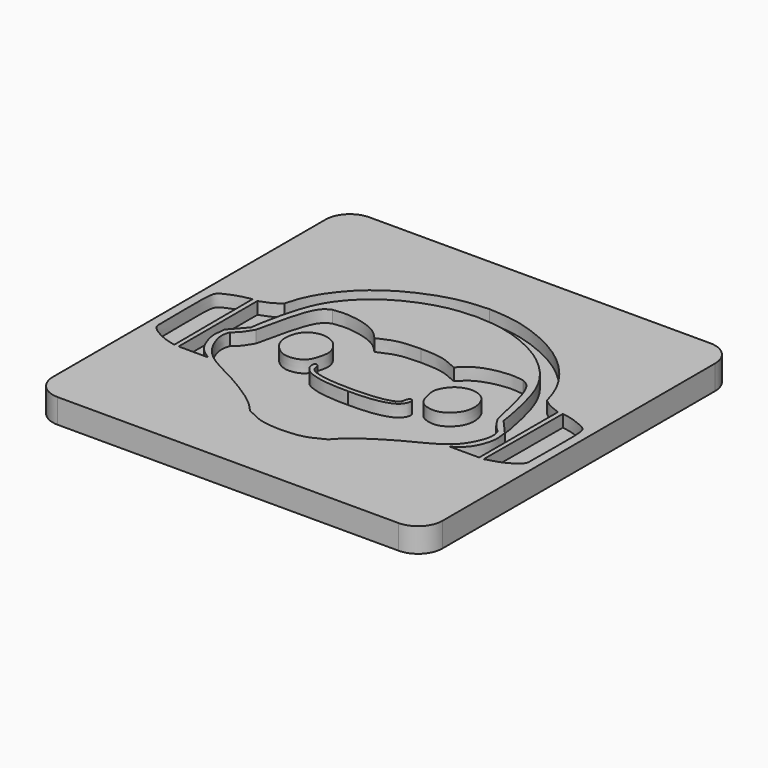
from build123d import *

# Parameters (mm, degrees)
F1_DEPTH = 6.35
F3_DEPTH = 3.175


with BuildPart() as f1:
    # F0 (on Top) → F1 (new body)
    with BuildSketch(Plane.XY):
        with BuildLine():
            Line((44.45, 50.8), (-44.45, 50.8))
            ThreePointArc((-44.45, 50.8), (-48.9401280605, 48.9401280605), (-50.8, 44.45))
            Line((-50.8, 44.45), (-50.8, -44.45))
            ThreePointArc((-50.8, -44.45), (-48.9401280605, -48.9401280605), (-44.45, -50.8))
            Line((-44.45, -50.8), (44.45, -50.8))
            ThreePointArc((44.45, -50.8), (48.9401280605, -48.9401280605), (50.8, -44.45))
            Line((50.8, -44.45), (50.8, 44.45))
            ThreePointArc((50.8, 44.45), (48.9401280605, 48.9401280605), (44.45, 50.8))
        make_face()
    extrude(amount=F1_DEPTH)

    # F2 (on face) → F3 (cut)
    with BuildSketch(Plane.XY.offset(6.35)):
        with BuildLine():
            add(Edge.make_bspline(
                [(-24.8850248754, 14.2479538918), (-23.7866133592, 14.3934386666), (-21.3637592776, 14.7143460637), (-16.3297638961, 13.8993667907), (-12.5234015624, 12.2117842876), (-11.0466473156, 10.5872289007), (-10.3606022894, 9.8325209692)],
                knots=[0, 0, 0, 0, 0.2361359922, 0.5208640333, 0.7774112737, 1, 1, 1, 1], degree=3))
            add(Edge.make_bspline(
                [(-24.8850248754, 14.2479538918), (-25.6900046089, 13.859758653), (-28.3149843178, 12.5938825291), (-30.2084508625, 3.753333819), (-31.5212644637, -2.3761605844)],
                knots=[0, 0, 0, 0, 0.3066613166, 1, 1, 1, 1], degree=3))
            add(Edge.make_bspline(
                [(-31.5212644637, -2.3761605844), (-32.0837465978, -3.3141941821), (-33.1298851989, -5.0588063147), (-34.3676728664, -6.1122079552), (-34.9399335682, -6.5992223099)],
                knots=[0, 0, 0, 0, 0.5376745811, 1, 1, 1, 1], degree=3))
            add(Edge.make_bspline(
                [(-34.9399335682, -6.5992223099), (-35.1757283319, -7.3174666423), (-35.7548532296, -9.0815141942), (-33.8463902107, -14.2478745424), (-30.098077757, -18.2305788516), (-23.1275889146, -21.4741431997), (-17.4001927085, -24.8919952526), (-12.8777528429, -27.9674604127), (-11.0383965677, -30.0104903326), (-10.1907067001, -30.952045694)],
                knots=[0, 0, 0, 0, 0.0983196738, 0.2414785221, 0.389653151, 0.5636679891, 0.7289188441, 0.8750689292, 1, 1, 1, 1], degree=3))
            add(Edge.make_bspline(
                [(-10.1907067001, -30.952045694), (-8.6374192877, -31.7831737355), (-5.5011640782, -33.4613111035), (-1.8452540959, -33.5734875674), (0, -33.6301065981)],
                knots=[0, 0, 0, 0, 0.4952681809, 1, 1, 1, 1], degree=3))
            add(Edge.make_bspline(
                [(10.1907067001, -30.952045694), (8.6374192877, -31.7831737355), (5.5011640782, -33.4613111035), (1.8452540959, -33.5734875674), (0, -33.6301065981)],
                knots=[0, 0, 0, 0, 0.4952681809, 1, 1, 1, 1], degree=3))
            add(Edge.make_bspline(
                [(34.9399335682, -6.5992223099), (35.1757283319, -7.3174666423), (35.7548532296, -9.0815141942), (33.8463902107, -14.2478745424), (30.098077757, -18.2305788516), (23.1275889146, -21.4741431997), (17.4001927085, -24.8919952526), (12.8777528429, -27.9674604127), (11.0383965677, -30.0104903326), (10.1907067001, -30.952045694)],
                knots=[0, 0, 0, 0, 0.0983196738, 0.2414785221, 0.389653151, 0.5636679891, 0.7289188441, 0.8750689292, 1, 1, 1, 1], degree=3))
            add(Edge.make_bspline(
                [(31.5212644637, -2.3761605844), (32.0837465978, -3.3141941821), (33.1298851989, -5.0588063147), (34.3676728664, -6.1122079552), (34.9399335682, -6.5992223099)],
                knots=[0, 0, 0, 0, 0.5376745811, 1, 1, 1, 1], degree=3))
            add(Edge.make_bspline(
                [(24.8850248754, 14.2479538918), (25.6900046089, 13.859758653), (28.3149843178, 12.5938825291), (30.2084508625, 3.753333819), (31.5212644637, -2.3761605844)],
                knots=[0, 0, 0, 0, 0.3066613166, 1, 1, 1, 1], degree=3))
            add(Edge.make_bspline(
                [(24.8850248754, 14.2479538918), (23.7866133592, 14.3934386666), (21.3637592776, 14.7143460637), (16.3297638961, 13.8993667907), (12.5234015624, 12.2117842876), (11.0466473156, 10.5872289007), (10.3606022894, 9.8325209692)],
                knots=[0, 0, 0, 0, 0.2361359922, 0.5208640333, 0.7774112737, 1, 1, 1, 1], degree=3))
            add(Edge.make_bspline(
                [(10.3606022894, 9.8325209692), (9.5949152427, 10.1835349192), (7.9671384869, 10.9297566965), (5.0138998036, 11.928078925), (1.2019718019, 12.0527967832), (0.3143654346, 12.0574074116), (0, 12.0590403676)],
                knots=[0, 0, 0, 0, 0.2500537527, 0.5315901426, 0.8341022847, 1, 1, 1, 1], degree=3))
            add(Edge.make_bspline(
                [(-10.3606022894, 9.8325209692), (-9.5949152427, 10.1835349192), (-7.9671384869, 10.9297566965), (-5.0138998036, 11.928078925), (-1.2019718019, 12.0527967832), (-0.3143654346, 12.0574074116), (0, 12.0590403676)],
                knots=[0, 0, 0, 0, 0.2500537527, 0.5315901426, 0.8341022847, 1, 1, 1, 1], degree=3))
        make_face()
        with BuildLine():
            add(Edge.make_bspline(
                [(0, -10.6089804322), (-1.7232643473, -10.5738455282), (-5.0039665501, -10.5069566861), (-9.0046160099, -9.9248318139), (-11.6243310823, -8.8162788722), (-11.5112935342, -7.1052753051), (-12.4720387624, -6.2826792888), (-13.2120021357, -7.4143776745), (-12.0197207364, -9.8828668581), (-8.9684588911, -11.0039289847), (-5.7038364003, -11.7113537876), (-0.1276444256, -11.9023051246), (0, -11.7957666516)],
                knots=[0, 0, 0, 0, 0.13495907, 0.2569312822, 0.3507217079, 0.423806334, 0.4800418153, 0.5360456898, 0.629741494, 0.7337277177, 0.8555369176, 0.9907725128, 0.9907725128, 0.9907725128, 0.9907725128], degree=3))
            add(Edge.make_bspline(
                [(0, -10.6089804322), (1.7232643473, -10.5738455282), (5.0039665501, -10.5069566861), (9.0046160099, -9.9248318139), (11.6243310823, -8.8162788722), (11.5112935342, -7.1052753051), (12.4720387624, -6.2826792888), (13.2120021357, -7.4143776745), (12.0197207364, -9.8828668581), (8.9684588911, -11.0039289847), (5.7038364003, -11.7113537876), (0.1276444256, -11.9023051246), (0, -11.7957666516)],
                knots=[0, 0, 0, 0, 0.13495907, 0.2569312822, 0.3507217079, 0.423806334, 0.4800418153, 0.5360456898, 0.629741494, 0.7337277177, 0.8555369176, 0.9907725128, 0.9907725128, 0.9907725128, 0.9907725128], degree=3))
        make_face(mode=Mode.SUBTRACT)
        with BuildLine():
            add(Edge.make_bspline(
                [(-19.6548011154, 4.3256334029), (-20.3893748171, 4.2808680562), (-22.2733276153, 3.828932065), (-24.2892588579, 1.7170478721), (-24.988593798, -2.4941395958), (-23.12135287, -5.7061532042), (-20.2534328768, -7.6797627048), (-17.1367705902, -7.4486730175), (-14.6480857038, -6.1475619411), (-13.6556100811, -2.4968357115), (-13.4182775369, 0.0192608631), (-15.6122331027, 3.3062704982), (-18.009657436, 4.18965627), (-19.0645423987, 4.3616041109), (-19.6548011154, 4.3256334029)],
                knots=[0, 0, 0, 0, 0.0772161461, 0.1587352943, 0.2560696373, 0.3481861007, 0.4365828621, 0.520093679, 0.5987861995, 0.6904217513, 0.7681616068, 0.8615751718, 0.9379538048, 1, 1, 1, 1], degree=3))
        make_face(mode=Mode.SUBTRACT)
        with BuildLine():
            add(Edge.make_bspline(
                [(19.6548011154, 4.3256334029), (20.3893748171, 4.2808680562), (22.2733276153, 3.828932065), (24.2892588579, 1.7170478721), (24.988593798, -2.4941395958), (23.12135287, -5.7061532042), (20.2534328768, -7.6797627048), (17.1367705902, -7.4486730175), (14.6480857038, -6.1475619411), (13.6556100811, -2.4968357115), (13.4182775369, 0.0192608631), (15.6122331027, 3.3062704982), (18.009657436, 4.18965627), (19.0645423987, 4.3616041109), (19.6548011154, 4.3256334029)],
                knots=[0, 0, 0, 0, 0.0772161461, 0.1587352943, 0.2560696373, 0.3481861007, 0.4365828621, 0.520093679, 0.5987861995, 0.6904217513, 0.7681616068, 0.8615751718, 0.9379538048, 1, 1, 1, 1], degree=3))
        make_face(mode=Mode.SUBTRACT)
        with BuildLine():
            add(Edge.make_bspline(
                [(0, 30.1495394402), (-2.2419343328, 30.047638833), (-6.8068745335, 29.8397287705), (-13.853097538, 27.5137284255), (-20.1462222326, 24.2479782421), (-27.0108370361, 18.0296295315), (-31.0008038589, 9.7285596957), (-33.0852361358, -2.2081550765), (-32.8735103105, -2.107226052), (-32.8630506992, -2.1022399887)],
                knots=[9.57138e-05, 9.57138e-05, 9.57138e-05, 9.57138e-05, 0.1479228726, 0.301093083, 0.45245789, 0.6194711982, 0.8067526781, 0.9904532578, 1, 1, 1, 1], degree=3))
            add(Edge.make_bspline(
                [(0, 30.1495394402), (2.2419343328, 30.047638833), (6.8068745335, 29.8397287705), (13.853097538, 27.5137284255), (20.1462222326, 24.2479782421), (27.0108370361, 18.0296295315), (31.0008038589, 9.7285596957), (33.0852361358, -2.2081550765), (32.8735103105, -2.107226052), (32.8630506992, -2.1022399887)],
                knots=[9.57138e-05, 9.57138e-05, 9.57138e-05, 9.57138e-05, 0.1479228726, 0.301093083, 0.45245789, 0.6194711982, 0.8067526781, 0.9904532578, 1, 1, 1, 1], degree=3))
            add(Edge.make_bspline(
                [(32.8630506992, -2.1022399887), (34.0862559776, -3.4911924352), (35.3094612559, -4.8801448817), (36.5326665342, -6.2690973282)],
                knots=[0, 0, 0, 0, 5.5523671045, 5.5523671045, 5.5523671045, 5.5523671045], degree=3))
            add(Edge.make_bspline(
                [(36.5326665342, -6.2690973282), (36.6617785928, -7.153369977), (36.9163172283, -8.8966738629), (36.6734696984, -11.3306766365), (34.9911942323, -15.7007052785), (32.652449485, -17.2233902234), (31.5056405962, -17.9700423032)],
                knots=[0, 0, 0, 0, 0.2201736747, 0.4340625295, 0.7224912542, 1, 1, 1, 1], degree=3))
            add(Edge.make_bspline(
                [(31.5056405962, -17.9700423032), (34.0697281063, -17.9700423032), (36.6338156164, -17.9700423032), (39.1979031265, -17.9700423032)],
                knots=[0, 0, 0, 0, 7.6922625303, 7.6922625303, 7.6922625303, 7.6922625303], degree=3))
            add(Edge.make_bspline(
                [(39.1979031265, -17.9700423032), (39.1979031265, -9.4093914765), (39.1979031265, -0.8487406497), (39.1979031265, 7.711910177)],
                knots=[0, 0, 0, 0, 25.6819524802, 25.6819524802, 25.6819524802, 25.6819524802], degree=3))
            add(Edge.make_bspline(
                [(39.1979031265, 7.711910177), (38.1562037293, 8.0787909622), (36.2014300778, 8.7672514663), (34.8705777097, 9.8313719191), (34.2489369214, 10.3284223005)],
                knots=[0, 0, 0, 0, 0.5329002651, 1, 1, 1, 1], degree=3))
            add(Edge.make_bspline(
                [(34.2489369214, 10.3284223005), (33.7212086337, 12.1346197459), (32.5376232946, 16.1855468345), (27.0647088411, 23.8925937349), (18.8942480026, 29.9532716554), (8.2553096904, 34.02232883), (2.6014695714, 34.3076991305), (0, 34.4390049577)],
                knots=[0, 0, 0, 0, 0.1636951942, 0.3671344448, 0.5834011943, 0.8083127408, 1, 1, 1, 1], degree=3))
            add(Edge.make_bspline(
                [(-34.2489369214, 10.3284223005), (-33.7212086337, 12.1346197459), (-32.5376232946, 16.1855468345), (-27.0647088411, 23.8925937349), (-18.8942480026, 29.9532716554), (-8.2553096904, 34.02232883), (-2.6014695714, 34.3076991305), (0, 34.4390049577)],
                knots=[0, 0, 0, 0, 0.1636951942, 0.3671344448, 0.5834011943, 0.8083127408, 1, 1, 1, 1], degree=3))
            add(Edge.make_bspline(
                [(-39.1979031265, 7.711910177), (-38.1562037293, 8.0787909622), (-36.2014300778, 8.7672514663), (-34.8705777097, 9.8313719191), (-34.2489369214, 10.3284223005)],
                knots=[0, 0, 0, 0, 0.5329002651, 1, 1, 1, 1], degree=3))
            add(Edge.make_bspline(
                [(-39.1979031265, -17.9700423032), (-39.1979031265, -9.4093914765), (-39.1979031265, -0.8487406497), (-39.1979031265, 7.711910177)],
                knots=[0, 0, 0, 0, 25.6819524802, 25.6819524802, 25.6819524802, 25.6819524802], degree=3))
            add(Edge.make_bspline(
                [(-31.5056405962, -17.9700423032), (-34.0697281063, -17.9700423032), (-36.6338156164, -17.9700423032), (-39.1979031265, -17.9700423032)],
                knots=[0, 0, 0, 0, 7.6922625303, 7.6922625303, 7.6922625303, 7.6922625303], degree=3))
            add(Edge.make_bspline(
                [(-36.5326665342, -6.2690973282), (-36.6617785928, -7.153369977), (-36.9163172283, -8.8966738629), (-36.6734696984, -11.3306766365), (-34.9911942323, -15.7007052785), (-32.652449485, -17.2233902234), (-31.5056405962, -17.9700423032)],
                knots=[0, 0, 0, 0, 0.2201736747, 0.4340625295, 0.7224912542, 1, 1, 1, 1], degree=3))
            add(Edge.make_bspline(
                [(-32.8630506992, -2.1022399887), (-34.0862559776, -3.4911924352), (-35.3094612559, -4.8801448817), (-36.5326665342, -6.2690973282)],
                knots=[0, 0, 0, 0, 5.5523671045, 5.5523671045, 5.5523671045, 5.5523671045], degree=3))
        make_face()
        with BuildLine():
            add(Edge.make_bspline(
                [(-40.4749773443, 7.711910177), (-40.4373233517, -0.8487406497), (-40.3996693591, -9.4093914765), (-40.3620153666, -17.9700423032)],
                knots=[0, 0, 0, 0, 25.6822009105, 25.6822009105, 25.6822009105, 25.6822009105], degree=3))
            add(Edge.make_bspline(
                [(-40.3620153666, -17.9700423032), (-41.8653023504, -17.5666544648), (-44.7409288992, -16.7950168532), (-48.5838587205, -14.1754160569), (-48.0994368591, -11.5096719133), (-48.8377905747, 3.8999138466), (-47.3922145125, 5.6099956103), (-43.2167959649, 7.2778790875), (-41.3288833029, 7.5767364895), (-40.4749773443, 7.711910177)],
                knots=[0, 0, 0, 0, 0.1456829001, 0.2786757418, 0.3906837544, 0.6504808978, 0.7498156157, 0.8868411973, 1, 1, 1, 1], degree=3))
        make_face()
        with BuildLine():
            add(Edge.make_bspline(
                [(40.3620153666, -17.9700423032), (41.8653023504, -17.5666544648), (44.7409288992, -16.7950168532), (48.5838587205, -14.1754160569), (48.0994368591, -11.5096719133), (48.8377905747, 3.8999138466), (47.3922145125, 5.6099956103), (43.2167959649, 7.2778790875), (41.3288833029, 7.5767364895), (40.4749773443, 7.711910177)],
                knots=[0, 0, 0, 0, 0.1456829001, 0.2786757418, 0.3906837544, 0.6504808978, 0.7498156157, 0.8868411973, 1, 1, 1, 1], degree=3))
            add(Edge.make_bspline(
                [(40.4749773443, 7.711910177), (40.4373233517, -0.8487406497), (40.3996693591, -9.4093914765), (40.3620153666, -17.9700423032)],
                knots=[0, 0, 0, 0, 25.6822009105, 25.6822009105, 25.6822009105, 25.6822009105], degree=3))
        make_face()
    extrude(amount=-F3_DEPTH, mode=Mode.SUBTRACT)


solid = f1.part
